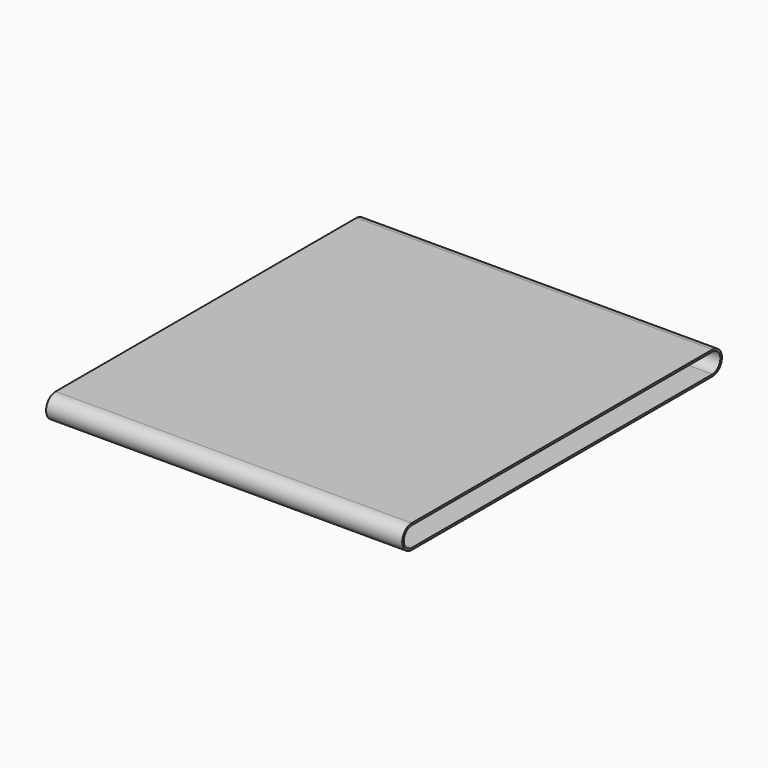
from build123d import *

# Parameters (mm, degrees)
F1_DEPTH = 360


with BuildPart() as f1:
    # F0 (on Right) → F1 (new body)
    with BuildSketch(Plane.YZ):
        with BuildLine():
            Line((380, 22), (0, 22))
            ThreePointArc((0, 22), (-12, 10), (0, -2))
            Line((0, -2), (380, -2))
            ThreePointArc((380, -2), (392, 10), (380, 22))
        make_face()
        with BuildLine():
            Line((380, 0), (0, 0))
            ThreePointArc((0, 0), (-10, 10), (0, 20))
            Line((0, 20), (380, 20))
            ThreePointArc((380, 20), (390, 10), (380, 0))
        make_face(mode=Mode.SUBTRACT)
    extrude(amount=-F1_DEPTH)


solid = f1.part
